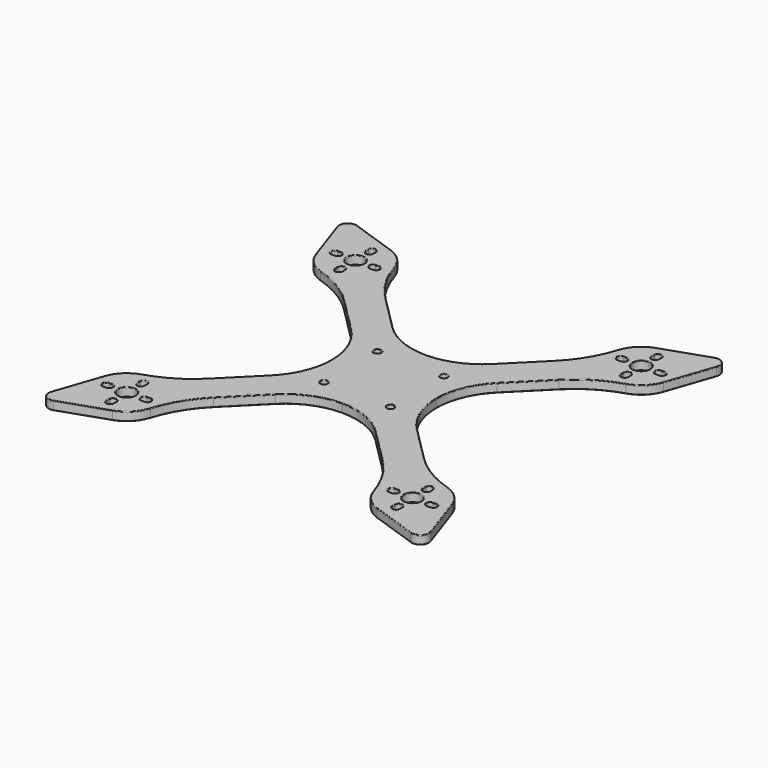
from build123d import *

# Parameters (mm, degrees)
F0_R     = 1.625
F0_R_2   = 4
F1_DEPTH = 4
F3_DEPTH = 25
F4_COUNT = 4
F5_R     = 0.3


with BuildPart() as f1:
    # F0 (on Top) → F1 (new body)
    with BuildSketch(Plane.XY):
        with BuildLine():
            ThreePointArc((-38.6710411515, 49.2776428693), (-46.1281034974, 58.8047360355), (-51.0785291442, 69.8440552603))
            ThreePointArc((-51.0785291442, 69.8440552603), (-54.6453357177, 75.8562270456), (-60.5495772958, 79.5989867354))
            Line((-60.5495772958, 79.5989867354), (-81.7896334657, 86.8694759829))
            ThreePointArc((-81.7896334657, 86.8694759829), (-85.9134739142, 85.9134739142), (-86.8694759829, 81.7896334657))
            Line((-86.8694759829, 81.7896334657), (-79.5989867354, 60.5495772958))
            ThreePointArc((-79.5989867354, 60.5495772958), (-75.8562270456, 54.6453357177), (-69.8440552603, 51.0785291442))
            ThreePointArc((-69.8440552603, 51.0785291442), (-58.8047360355, 46.1281034974), (-49.2776428693, 38.6710411515))
            Line((-49.2776428693, 38.6710411515), (-33.4705627485, 22.8639610307))
            ThreePointArc((-33.4705627485, 22.8639610307), (-26.4613190661, 12.3738865437), (-24, 0))
            Line((-24, 0), (0, 0))
            Line((0, 0), (0, 24))
            ThreePointArc((0, 24), (-12.3738865437, 26.4613190661), (-22.8639610307, 33.4705627485))
            Line((-22.8639610307, 33.4705627485), (-38.6710411515, 49.2776428693))
        make_face()
        with Locations((-15.25, 15.25)):
            Circle(F0_R, mode=Mode.SUBTRACT)
        with Locations((-65.4073772598, 65.4073772598)):
            Circle(F0_R_2, mode=Mode.SUBTRACT)
    extrude(amount=F1_DEPTH)

    # F2 (on face) → F3 (cut)
    with BuildSketch(Plane.XY.offset(4)):
        with BuildLine():
            ThreePointArc((-57.4073772598, 67.0323772598), (-59.0323772598, 65.4073772598), (-57.4073772598, 63.7823772598))
            Line((-57.4073772598, 63.7823772598), (-55.9073772598, 63.7823772598))
            ThreePointArc((-55.9073772598, 63.7823772598), (-54.2823772598, 65.4073772598), (-55.9073772598, 67.0323772598))
            Line((-55.9073772598, 67.0323772598), (-57.4073772598, 67.0323772598))
        make_face()
        with BuildLine():
            ThreePointArc((-67.0323772598, 55.9073772598), (-65.4073772598, 54.2823772598), (-63.7823772598, 55.9073772598))
            Line((-63.7823772598, 55.9073772598), (-63.7823772598, 57.4073772598))
            ThreePointArc((-63.7823772598, 57.4073772598), (-65.4073772598, 59.0323772598), (-67.0323772598, 57.4073772598))
            Line((-67.0323772598, 57.4073772598), (-67.0323772598, 55.9073772598))
        make_face()
        with BuildLine():
            ThreePointArc((-74.9073772598, 67.0323772598), (-76.5323772598, 65.4073772598), (-74.9073772598, 63.7823772598))
            Line((-74.9073772598, 63.7823772598), (-73.4073772598, 63.7823772598))
            ThreePointArc((-73.4073772598, 63.7823772598), (-71.7823772598, 65.4073772598), (-73.4073772598, 67.0323772598))
            Line((-73.4073772598, 67.0323772598), (-74.9073772598, 67.0323772598))
        make_face()
        with BuildLine():
            ThreePointArc((-63.7823772598, 74.9073772598), (-65.4073772598, 76.5323772598), (-67.0323772598, 74.9073772598))
            Line((-67.0323772598, 74.9073772598), (-67.0323772598, 73.4073772598))
            ThreePointArc((-67.0323772598, 73.4073772598), (-65.4073772598, 71.7823772598), (-63.7823772598, 73.4073772598))
            Line((-63.7823772598, 73.4073772598), (-63.7823772598, 74.9073772598))
        make_face()
    extrude(amount=-F3_DEPTH, mode=Mode.SUBTRACT)

    # F4: F1 ×4 about axis
    f4_axis = Axis((0, 0, 2), (0, 0, -1))


with BuildPart() as f1_1:
    add(f1.part)
    for i in range(1, F4_COUNT):
        add(f1.part.rotate(f4_axis, i * 360 / F4_COUNT))

    # F5
    f5_edges = [f1_1.edges().sort_by_distance(p)[0] for p in [
        (0, -24, 4),
        (0, -24, 0),
        (-15.25, -16.875, 0),
        (16.875, -15.25, 0),
        (-16.875, 15.25, 0),
        (15.25, 16.875, 0),
        (56.657377, -63.782377, 0),
        (65.407377, -71.782377, 0),
        (69.407377, -65.407377, 0),
        (76.532377, -65.407377, 0),
        (65.407377, -54.282377, 0),
        (-56.657377, -63.782377, 0),
        (-65.407377, -71.782377, 0),
        (-65.407377, -69.407377, 0),
        (-74.157377, -63.782377, 0),
        (-65.407377, -54.282377, 0),
        (-65.407377, 76.532377, 0),
        (-59.032377, 65.407377, 0),
        (-65.407377, 59.032377, 0),
        (-69.407377, 65.407377, 0),
        (-74.157377, 67.032377, 0),
        (65.407377, 59.032377, 0),
        (65.407377, 69.407377, 0),
        (59.032377, 65.407377, 0),
        (63.782377, 74.157377, 0),
        (71.782377, 65.407377, 0),
        (65.407377, 59.032377, 4),
        (59.032377, 65.407377, 4),
        (71.782377, 65.407377, 4),
        (65.407377, 69.407377, 4),
        (65.407377, 71.782377, 4),
        (-65.407377, 59.032377, 4),
        (-69.407377, 65.407377, 4),
        (-59.032377, 65.407377, 4),
        (-65.407377, 71.782377, 4),
        (-71.782377, 65.407377, 4),
        (-15.25, -16.875, 4),
        (-16.875, 15.25, 4),
        (15.25, 16.875, 4),
        (16.875, -15.25, 4),
        (-76.532377, -65.407377, 4),
        (-67.032377, -56.657377, 4),
        (-59.032377, -65.407377, 4),
        (-65.407377, -71.782377, 4),
        (-65.407377, -69.407377, 4),
        (65.407377, -71.782377, 4),
        (54.282377, -65.407377, 4),
        (69.407377, -65.407377, 4),
        (63.782377, -56.657377, 4),
        (71.782377, -65.407377, 4),
    ]]
    fillet(f5_edges, radius=F5_R)


solid = f1_1.part
